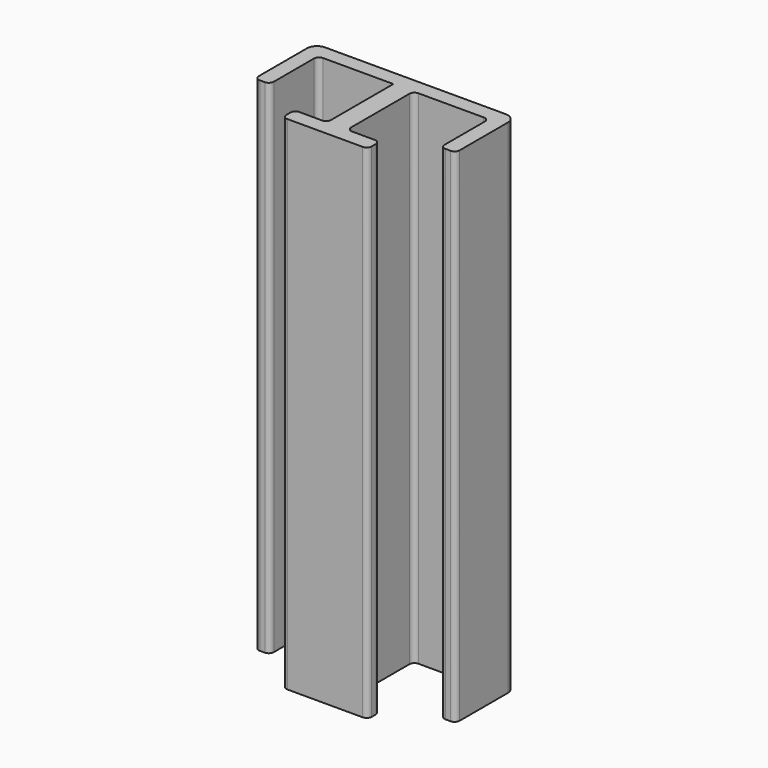
from build123d import *

# Parameters (mm, degrees)
F1_DEPTH = 100
F2_R     = 2
F3_R     = 1


with BuildPart() as f1:
    # F0 (on Top) → F1 (new body)
    with BuildSketch(Plane.XY):
        Polygon((20, 10), (-20, 10), (-20, -5), (-17, -5), (-17, 7), (-2, 7), (-2, -9.5), (-8.5, -9.5), (-8.5, -12.5), (0, -12.5), (8.5, -12.5), (8.5, -9.5), (2, -9.5), (2, 7), (17, 7), (17, -5), (20, -5), align=None)
    extrude(amount=F1_DEPTH)

    # F2
    f2_edges = [f1.edges().sort_by_distance(p)[0] for p in [
        (-20, 10, 50),
        (20, 10, 50),
    ]]
    fillet(f2_edges, radius=F2_R)

    # F3
    f3_edges = [f1.edges().sort_by_distance(p)[0] for p in [
        (-17, -5, 50),
        (-20, -5, 50),
        (-17, 7, 50),
        (2, 7, 50),
        (8.5, -12.5, 50),
        (8.5, -9.5, 50),
        (-8.5, -12.5, 50),
        (-8.5, -9.5, 50),
        (-2, -9.5, 50),
        (2, -9.5, 50),
        (17, -5, 50),
        (20, -5, 50),
        (17, 7, 50),
    ]]
    fillet(f3_edges, radius=F3_R)


solid = f1.part
